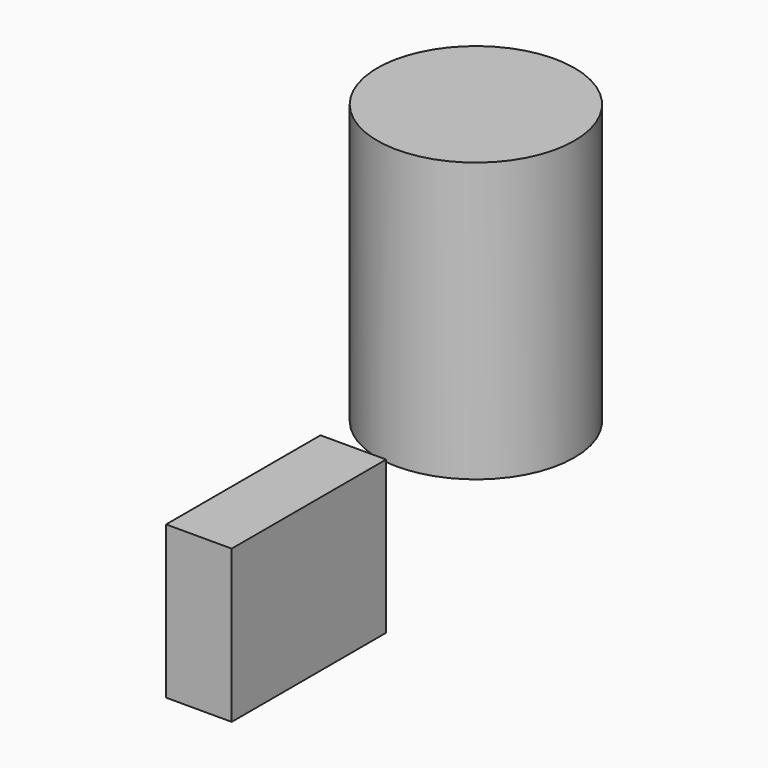
from build123d import *

# Parameters (mm, degrees)
F0_R     = 38.146606
F1_DEPTH = 107.95
F2_W     = 74.702159
F2_H     = 59.046
F3_DEPTH = 25.4


with BuildPart() as f1:
    # F0 (on Top) → F1 (new body)
    with BuildSketch(Plane.XY):
        Circle(F0_R)
    extrude(amount=F1_DEPTH)


with BuildPart() as f3:
    # F2 (on Right) → F3 (new body)
    with BuildSketch(Plane.YZ):
        with Locations((-112.548254, -3.767483)):
            Rectangle(F2_W, F2_H)
    extrude(amount=F3_DEPTH)


solid = Compound([f1.part, f3.part])
